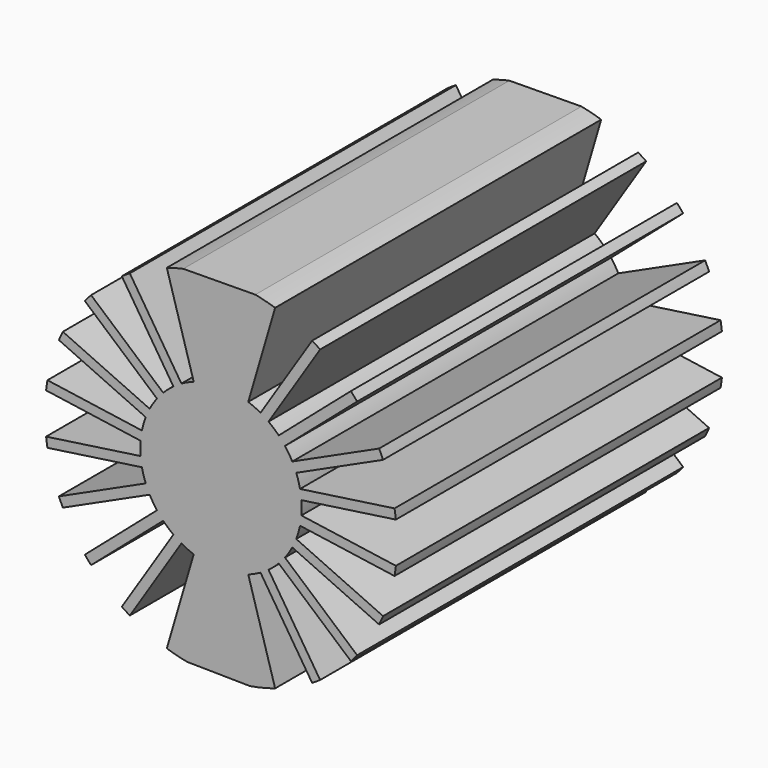
from build123d import *

# Parameters (mm, degrees)
F1_DEPTH = 25


with BuildPart() as f1:
    # F0 (on Front) → F1 (new body)
    with BuildSketch(Plane.XZ):
        with BuildLine():
            Line((-2.425778, 4.31487), (-5.591055, 9.240136))
            ThreePointArc((-5.591055, 9.240136), (-5.838921, 9.085538), (-6.082515, 8.924293))
            Line((-6.082515, 8.924293), (-2.917239, 3.999027))
            ThreePointArc((-2.917239, 3.999027), (-3.241561, 3.74096), (-3.543157, 3.456666))
            Line((-3.543157, 3.456666), (-7.967825, 7.290663))
            ThreePointArc((-7.967825, 7.290663), (-8.162095, 7.072496), (-8.350394, 6.849154))
            Line((-8.350394, 6.849154), (-3.925726, 3.015157))
            ThreePointArc((-3.925726, 3.015157), (-4.164205, 2.676172), (-4.373489, 2.318424))
            Line((-4.373489, 2.318424), (-9.699089, 4.750544))
            ThreePointArc((-9.699089, 4.750544), (-9.824026, 4.486482), (-9.941774, 4.219137))
            Line((-9.941774, 4.219137), (-4.616175, 1.787017))
            ThreePointArc((-4.616175, 1.787017), (-4.74949, 1.394576), (-4.849508, 0.992358))
            Line((-4.849508, 0.992358), (-10.644591, 1.825565))
            ThreePointArc((-10.644591, 1.825565), (-10.690072, 1.537), (-10.727731, 1.247311))
            Line((-10.727731, 1.247311), (-4.932648, 0.414104))
            ThreePointArc((-4.932648, 0.414104), (-4.95, 0), (-4.932648, -0.414104))
            Line((-4.932648, -0.414104), (-10.727731, -1.247311))
            ThreePointArc((-10.727731, -1.247311), (-10.690072, -1.537), (-10.644591, -1.825565))
            Line((-10.644591, -1.825565), (-4.849508, -0.992358))
            ThreePointArc((-4.849508, -0.992358), (-4.74949, -1.394576), (-4.616175, -1.787017))
            Line((-4.616175, -1.787017), (-9.941774, -4.219137))
            ThreePointArc((-9.941774, -4.219137), (-9.824026, -4.486482), (-9.699089, -4.750544))
            Line((-9.699089, -4.750544), (-4.373489, -2.318424))
            ThreePointArc((-4.373489, -2.318424), (-4.164205, -2.676172), (-3.925726, -3.015157))
            Line((-3.925726, -3.015157), (-8.350394, -6.849154))
            ThreePointArc((-8.350394, -6.849154), (-8.162095, -7.072496), (-7.967825, -7.290663))
            Line((-7.967825, -7.290663), (-3.543157, -3.456666))
            ThreePointArc((-3.543157, -3.456666), (-3.241561, -3.74096), (-2.917239, -3.999027))
            Line((-2.917239, -3.999027), (-6.082515, -8.924293))
            ThreePointArc((-6.082515, -8.924293), (-5.838921, -9.085538), (-5.591055, -9.240136))
            Line((-5.591055, -9.240136), (-2.425778, -4.31487))
            ThreePointArc((-2.425778, -4.31487), (-2.056304, -4.502678), (-1.672414, -4.65892))
            Line((-1.672414, -4.65892), (-3.321866, -10.276439))
            ThreePointArc((-3.321866, -10.276439), (-2.702728, -10.45635), (-2.073957, -10.598995))
            Line((-2.073957, -10.598995), (1.778874, -10.652493))
            ThreePointArc((1.778874, -10.652493), (2.557292, -10.492867), (3.321866, -10.276439))
            Line((3.321866, -10.276439), (1.672414, -4.65892))
            ThreePointArc((1.672414, -4.65892), (2.056304, -4.502678), (2.425778, -4.31487))
            Line((2.425778, -4.31487), (5.591055, -9.240136))
            ThreePointArc((5.591055, -9.240136), (5.838921, -9.085538), (6.082515, -8.924293))
            Line((6.082515, -8.924293), (2.917239, -3.999027))
            ThreePointArc((2.917239, -3.999027), (3.241561, -3.74096), (3.543157, -3.456666))
            Line((3.543157, -3.456666), (7.967825, -7.290663))
            ThreePointArc((7.967825, -7.290663), (8.162095, -7.072496), (8.350394, -6.849154))
            Line((8.350394, -6.849154), (3.925726, -3.015157))
            ThreePointArc((3.925726, -3.015157), (4.164205, -2.676172), (4.373489, -2.318424))
            Line((4.373489, -2.318424), (9.699089, -4.750544))
            ThreePointArc((9.699089, -4.750544), (9.824026, -4.486482), (9.941774, -4.219137))
            Line((9.941774, -4.219137), (4.616175, -1.787017))
            ThreePointArc((4.616175, -1.787017), (4.74949, -1.394576), (4.849508, -0.992358))
            Line((4.849508, -0.992358), (10.644591, -1.825565))
            ThreePointArc((10.644591, -1.825565), (10.690072, -1.537), (10.727731, -1.247311))
            Line((10.727731, -1.247311), (4.932648, -0.414104))
            ThreePointArc((4.932648, -0.414104), (4.95, 0), (4.932648, 0.414104))
            Line((4.932648, 0.414104), (10.727731, 1.247311))
            ThreePointArc((10.727731, 1.247311), (10.690072, 1.537), (10.644591, 1.825565))
            Line((10.644591, 1.825565), (4.849508, 0.992358))
            ThreePointArc((4.849508, 0.992358), (4.74949, 1.394576), (4.616175, 1.787017))
            Line((4.616175, 1.787017), (9.941774, 4.219137))
            ThreePointArc((9.941774, 4.219137), (9.824026, 4.486482), (9.699089, 4.750544))
            Line((9.699089, 4.750544), (4.373489, 2.318424))
            ThreePointArc((4.373489, 2.318424), (4.164205, 2.676172), (3.925726, 3.015157))
            Line((3.925726, 3.015157), (8.350394, 6.849154))
            ThreePointArc((8.350394, 6.849154), (8.162095, 7.072496), (7.967825, 7.290663))
            Line((7.967825, 7.290663), (3.543157, 3.456666))
            ThreePointArc((3.543157, 3.456666), (3.241561, 3.74096), (2.917239, 3.999027))
            Line((2.917239, 3.999027), (6.082515, 8.924293))
            ThreePointArc((6.082515, 8.924293), (5.838921, 9.085538), (5.591055, 9.240136))
            Line((5.591055, 9.240136), (2.425778, 4.31487))
            ThreePointArc((2.425778, 4.31487), (2.056304, 4.502678), (1.672414, 4.65892))
            Line((1.672414, 4.65892), (3.321866, 10.276439))
            ThreePointArc((3.321866, 10.276439), (2.720175, 10.451825), (2.109323, 10.592014))
            Line((2.109323, 10.592014), (-2.310303, 10.55))
            ThreePointArc((-2.310303, 10.55), (-2.819405, 10.425496), (-3.321866, 10.276439))
            Line((-3.321866, 10.276439), (-1.672414, 4.65892))
            ThreePointArc((-1.672414, 4.65892), (-2.056304, 4.502678), (-2.425778, 4.31487))
        make_face()
    extrude(amount=F1_DEPTH)


solid = f1.part
